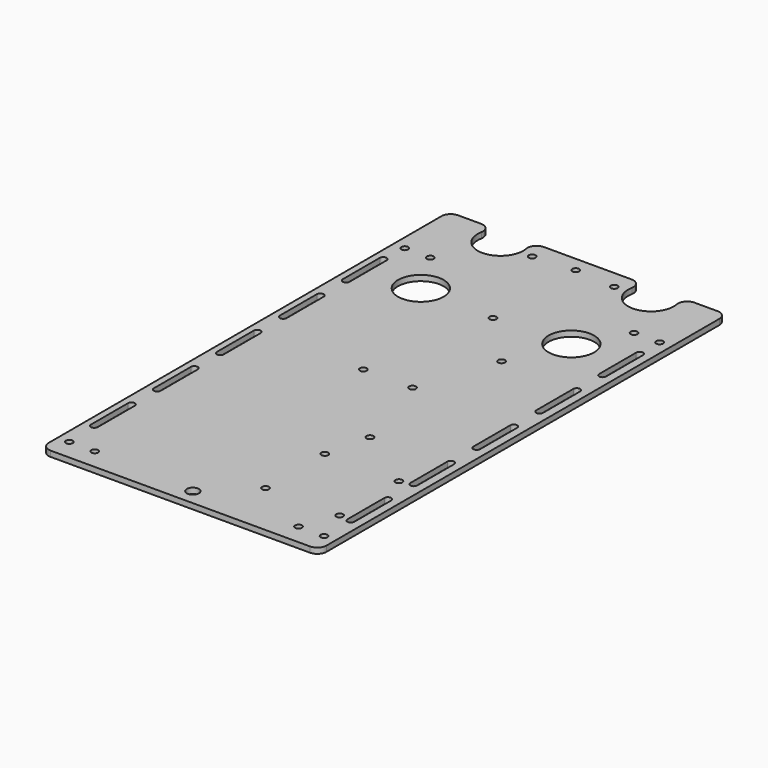
from build123d import *

# Parameters (mm, degrees)
F0_R     = 3.302
F0_R_2   = 12.5
F1_DEPTH = 3.048
F2_D     = 3.75
F3_R     = 5.08
F4_R     = 5.08


with BuildPart() as f1:
    # F0 (on Top) → F1 (new body)
    with BuildSketch(Plane.XY):
        with BuildLine():
            Line((-50.6614250383, 139.7), (-76.2, 139.7))
            Line((-76.2, 139.7), (-76.2, -139.7))
            Line((-76.2, -139.7), (76.2, -139.7))
            Line((76.2, -139.7), (76.2, 139.7))
            Line((76.2, 139.7), (50.6614250383, 139.7))
            ThreePointArc((50.6614250383, 139.7), (52.970732405, 135.8563312628), (53.775, 131.445))
            ThreePointArc((53.775, 131.445), (36.8636687372, 119.749267595), (31.8885749617, 139.7))
            Line((31.8885749617, 139.7), (-31.8885749617, 139.7))
            ThreePointArc((-31.8885749617, 139.7), (-29.579267595, 135.8563312628), (-28.775, 131.445))
            ThreePointArc((-28.775, 131.445), (-45.6863312628, 119.749267595), (-50.6614250383, 139.7))
        make_face()
        with BuildLine():
            ThreePointArc((-72.66317, -84.6626662669), (-70.78817, -82.7876662669), (-68.91317, -84.6626662669))
            Line((-68.91317, -84.6626662669), (-68.91317, -110.0626662669))
            ThreePointArc((-68.91317, -110.0626662669), (-70.78817, -111.9376662669), (-72.66317, -110.0626662669))
            Line((-72.66317, -110.0626662669), (-72.66317, -84.6626662669))
        make_face(mode=Mode.SUBTRACT)
        with BuildLine():
            ThreePointArc((-72.66317, -41.5120462669), (-70.78817, -39.6370462669), (-68.91317, -41.5120462669))
            Line((-68.91317, -41.5120462669), (-68.91317, -66.9120462669))
            ThreePointArc((-68.91317, -66.9120462669), (-70.78817, -68.7870462669), (-72.66317, -66.9120462669))
            Line((-72.66317, -66.9120462669), (-72.66317, -41.5120462669))
        make_face(mode=Mode.SUBTRACT)
        with BuildLine():
            ThreePointArc((-72.66317, 1.6385737331), (-70.78817, 3.5135737331), (-68.91317, 1.6385737331))
            Line((-68.91317, 1.6385737331), (-68.91317, -23.7614262669))
            ThreePointArc((-68.91317, -23.7614262669), (-70.78817, -25.6364262669), (-72.66317, -23.7614262669))
            Line((-72.66317, -23.7614262669), (-72.66317, 1.6385737331))
        make_face(mode=Mode.SUBTRACT)
        with Locations((0, -130.9944583397)):
            Circle(F0_R, mode=Mode.SUBTRACT)
        with BuildLine():
            ThreePointArc((67.975, -84.6626662669), (69.85, -82.7876662669), (71.725, -84.6626662669))
            Line((71.725, -84.6626662669), (71.725, -110.0626662669))
            ThreePointArc((71.725, -110.0626662669), (69.85, -111.9376662669), (67.975, -110.0626662669))
            Line((67.975, -110.0626662669), (67.975, -84.6626662669))
        make_face(mode=Mode.SUBTRACT)
        with BuildLine():
            ThreePointArc((67.975, -41.5120462669), (69.85, -39.6370462669), (71.725, -41.5120462669))
            Line((71.725, -41.5120462669), (71.725, -66.9120462669))
            ThreePointArc((71.725, -66.9120462669), (69.85, -68.7870462669), (67.975, -66.9120462669))
            Line((67.975, -66.9120462669), (67.975, -41.5120462669))
        make_face(mode=Mode.SUBTRACT)
        with BuildLine():
            ThreePointArc((67.975, 1.6385737331), (69.85, 3.5135737331), (71.725, 1.6385737331))
            Line((71.725, 1.6385737331), (71.725, -23.7614262669))
            ThreePointArc((71.725, -23.7614262669), (69.85, -25.6364262669), (67.975, -23.7614262669))
            Line((67.975, -23.7614262669), (67.975, 1.6385737331))
        make_face(mode=Mode.SUBTRACT)
        with BuildLine():
            ThreePointArc((-72.66317, 44.7891937331), (-70.78817, 46.6641937331), (-68.91317, 44.7891937331))
            Line((-68.91317, 44.7891937331), (-68.91317, 19.3891937331))
            ThreePointArc((-68.91317, 19.3891937331), (-70.78817, 17.5141937331), (-72.66317, 19.3891937331))
            Line((-72.66317, 19.3891937331), (-72.66317, 44.7891937331))
        make_face(mode=Mode.SUBTRACT)
        with BuildLine():
            ThreePointArc((-72.66317, 87.9398137331), (-70.78817, 89.8148137331), (-68.91317, 87.9398137331))
            Line((-68.91317, 87.9398137331), (-68.91317, 62.5398137331))
            ThreePointArc((-68.91317, 62.5398137331), (-70.78817, 60.6648137331), (-72.66317, 62.5398137331))
            Line((-72.66317, 62.5398137331), (-72.66317, 87.9398137331))
        make_face(mode=Mode.SUBTRACT)
        with Locations((-41.275, 76.835)):
            Circle(F0_R_2, mode=Mode.SUBTRACT)
        with BuildLine():
            ThreePointArc((67.975, 44.7891937331), (69.85, 46.6641937331), (71.725, 44.7891937331))
            Line((71.725, 44.7891937331), (71.725, 19.3891937331))
            ThreePointArc((71.725, 19.3891937331), (69.85, 17.5141937331), (67.975, 19.3891937331))
            Line((67.975, 19.3891937331), (67.975, 44.7891937331))
        make_face(mode=Mode.SUBTRACT)
        with Locations((41.275, 76.835)):
            Circle(F0_R_2, mode=Mode.SUBTRACT)
        with BuildLine():
            Line((67.975, 62.5398137331), (67.975, 87.9398137331))
            ThreePointArc((67.975, 87.9398137331), (69.85, 89.8148137331), (71.725, 87.9398137331))
            Line((71.725, 87.9398137331), (71.725, 62.5398137331))
            ThreePointArc((71.725, 62.5398137331), (69.85, 60.6648137331), (67.975, 62.5398137331))
        make_face(mode=Mode.SUBTRACT)
    extrude(amount=-F1_DEPTH)

    # F2 (through all)
    with Locations(Plane.XY):
        with Locations((-69.865, 101.6), (-55.865, 101.6), (27.9793004394, 45.5965413487), (27.9793004394, -44.5734586513), (55.865, 101.6), (69.865, 101.6), (22.5162935781, -68.6938670802), (22.5162935781, -109.3338670802), (63.1562935781, -109.3338670802), (63.1562935781, -68.6938670802), (-55.865, -128.4), (-69.865, -128.4), (55.865, -128.4), (69.865, -128.4), (0, 131.445), (0, 74.676), (-22.5, 129.7), (22.5, 129.7), (13.5, 2.7), (-13.5, 2.7)):
            Hole(F2_D / 2)

    # F3
    f3_edges = [f1.edges().sort_by_distance(p)[0] for p in [
        (-76.2, 139.7, -1.524),
        (76.2, 139.7, -1.524),
        (76.2, -139.7, -1.524),
        (-76.2, -139.7, -1.524),
    ]]
    fillet(f3_edges, radius=F3_R)

    # F4
    f4_edges = [f1.edges().sort_by_distance(p)[0] for p in [
        (-50.661425, 139.7, -1.524),
        (-31.888575, 139.7, -1.524),
        (31.888575, 139.7, -1.524),
        (50.661425, 139.7, -1.524),
    ]]
    fillet(f4_edges, radius=F4_R)


solid = f1.part
